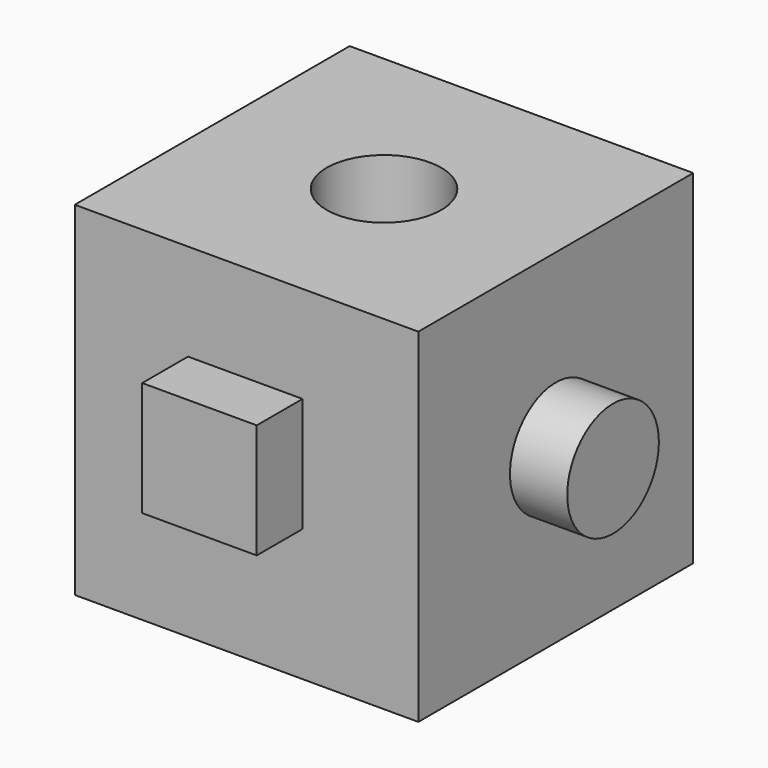
from build123d import *

# Parameters (mm, degrees)
F0_W     = 76.2
F0_H     = 76.2
F1_DEPTH = 76.2
F2_W     = 25.4
F2_H     = 25.4
F3_DEPTH = 12.7
F6_D     = 25.4
F4_R     = 12.7
F7_DEPTH = 12.7


with BuildPart() as f1:
    # F0 (on Front) → F1 (new body)
    with BuildSketch(Plane.XZ):
        with Locations((-38.1, 2.572681)):
            Rectangle(F0_W, F0_H)
    extrude(amount=F1_DEPTH)

    # F2 (on face) → F3 (join)
    with BuildSketch(Plane.XZ.offset(76.2)):
        with Locations((-38.384396, 6.487661)):
            Rectangle(F2_W, F2_H)
    extrude(amount=F3_DEPTH)

    # F6 (through all)
    with Locations(Plane.XY.offset(40.672681)):
        with Locations((-38.1, -38.1)):
            Hole(F6_D / 2)

    # F4 (on face) → F7 (join)
    with BuildSketch(Plane.YZ):
        with Locations((-38.1, 2.572681)):
            Circle(F4_R)
    extrude(amount=F7_DEPTH)


solid = f1.part
